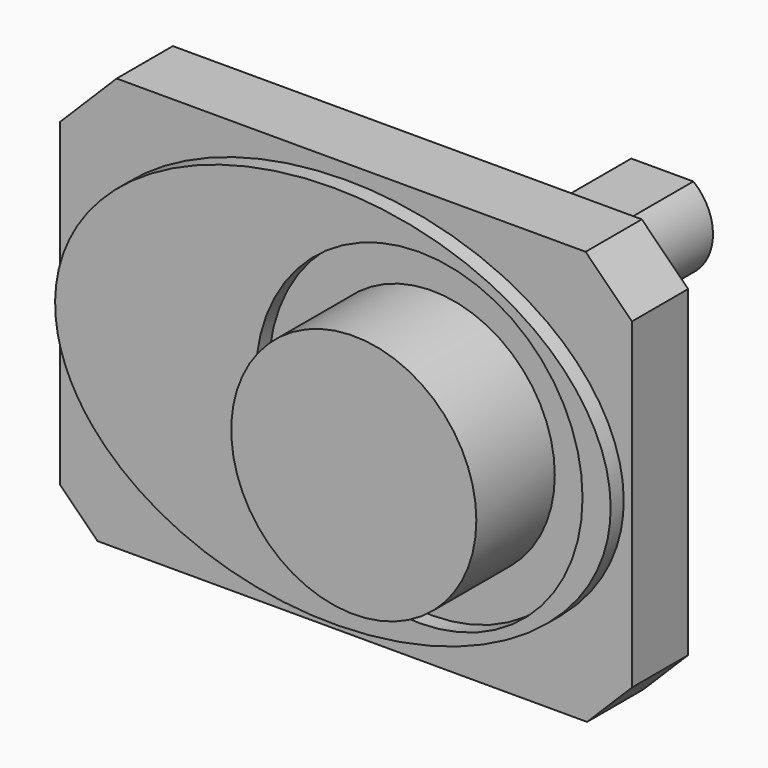
from build123d import *

# Parameters (mm, degrees)
F1_DEPTH = 10.922
F2_R     = 25.4
F3_DEPTH = 2.54
F4_R     = 19.05
F5_DEPTH = 15.24
F6_R     = 7.874
F7_DEPTH = 33.274
F9_DEPTH = 17.272


with BuildPart() as f1:
    # F0 (on Front) → F1 (new body)
    with BuildSketch(Plane.XZ):
        Polygon((-44.45, -26.310472), (-38.629472, -32.131), (37.483197, -32.131), (44.45, -25.164197), (44.45, 24.934939), (37.253939, 32.131), (-35.649154, 32.131), (-44.45, 23.330154), align=None)
    extrude(amount=F1_DEPTH)

    # F2 (on face) → F3 (join)
    with BuildSketch(Plane.XZ.offset(10.922)):
        with BuildLine():
            add(Edge.make_bspline(
                [(0, 29.845), (-74.789954, 29.845), (-37.394977, -14.9225), (0, -59.69), (37.394977, -14.9225), (74.789954, 29.845), (0, 29.845)],
                knots=[4.712389, 4.712389, 4.712389, 6.806784, 6.806784, 8.901179, 8.901179, 10.995574, 10.995574, 10.995574], degree=2, weights=[1, 0.5, 1, 0.5, 1, 0.5, 1]))
        make_face()
        with Locations((13.411419, 0)):
            Circle(F2_R, mode=Mode.SUBTRACT)
    extrude(amount=F3_DEPTH)

    # F4 (on face) → F5 (join)
    with BuildSketch(Plane.XZ.offset(10.922)):
        with Locations((13.411419, 0)):
            Circle(F4_R)
    extrude(amount=F5_DEPTH)

    # F6 (on face) → F7 (join)
    with BuildSketch(Plane(origin=(0, 0, 0), x_dir=(-1, 0, 0), z_dir=(0, 1, 0))):
        Circle(F6_R)
    extrude(amount=F7_DEPTH)

    # F8 (on face) → F9 (join)
    with BuildSketch(Plane(origin=(0, 33.274, 0), x_dir=(-1, 0, 0), z_dir=(0, 1, 0))):
        with BuildLine():
            Line((4.826, 6.221704), (-4.826, 6.221704))
            ThreePointArc((-4.826, 6.221704), (-3.464098, -7.071061), (7.874, 0))
            ThreePointArc((7.874, 0), (7.071061, 3.464098), (4.826, 6.221704))
        make_face()
    extrude(amount=F9_DEPTH)


solid = f1.part
